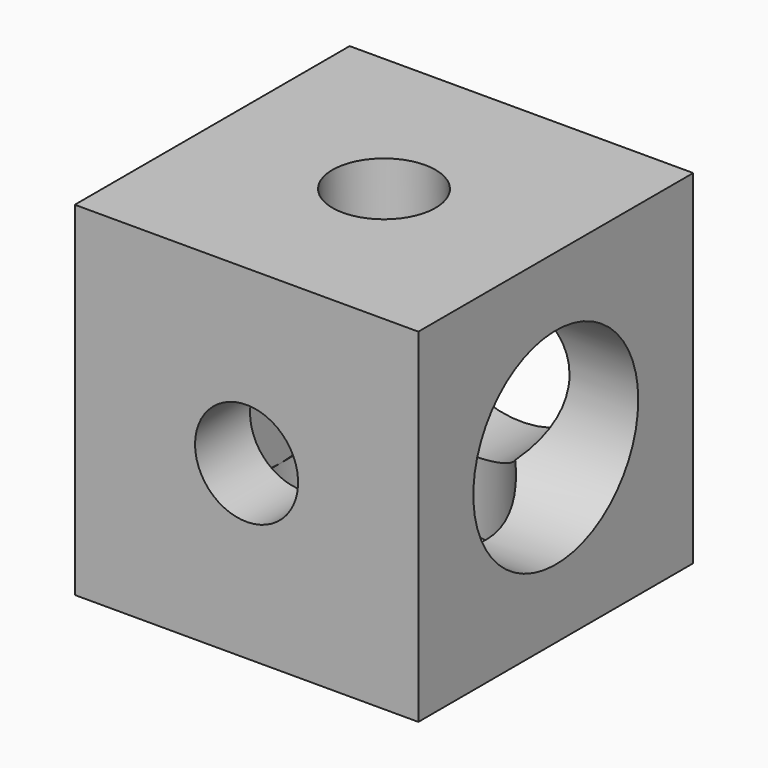
from build123d import *

# Parameters (mm, degrees)
SKETCH001_W                       = 10
SKETCH001_H                       = 10
PAD001_DEPTH                      = 5
SKETCH002_R                       = 1.5
POCKET_DEPTH                      = 39.642016
POCKET_DEPTH_BACK                 = 39.642016
SKETCH002_POLARPATTERN_2_R        = 1.5
POCKET_POLARPATTERN_2_DEPTH       = 39.642016
POCKET_POLARPATTERN_2_DEPTH_BACK  = 39.642016
POLARPATTERN001_COUNT             = 2
POLARPATTERN001_ANGLE             = 90
SKETCH003_R                       = 3
POCKET001_DEPTH                   = 8
SKETCH003_POLARPATTERN002_2_R     = 3
POCKET001_POLARPATTERN002_2_DEPTH = 8
POLARPATTERN003_COUNT             = 2
POLARPATTERN003_ANGLE             = 90


with BuildPart() as part:
    # Sketch001 → Pad001 (new body, symmetric)
    with BuildSketch(Plane.YZ):
        Rectangle(SKETCH001_W, SKETCH001_H)
    extrude(amount=PAD001_DEPTH, both=True)

    # Sketch002 → Pocket (cut, two sides)
    with BuildSketch(Plane.YZ) as pocket_sk:
        Circle(SKETCH002_R)
    pocket = extrude(amount=-POCKET_DEPTH, mode=Mode.SUBTRACT) + extrude(pocket_sk.sketch, amount=POCKET_DEPTH_BACK, mode=Mode.SUBTRACT)

    # Sketch002 PolarPattern 2 → Pocket PolarPattern 2 (cut, two sides)
    with BuildSketch(Plane(origin=(0, 0, 0), x_dir=(-1, 0, 0), z_dir=(0, 1, 0))) as pocket_polarpattern_2_sk:
        Circle(SKETCH002_POLARPATTERN_2_R)
    pocket_polarpattern_2 = extrude(amount=-POCKET_POLARPATTERN_2_DEPTH, mode=Mode.SUBTRACT) + extrude(pocket_polarpattern_2_sk.sketch, amount=POCKET_POLARPATTERN_2_DEPTH_BACK, mode=Mode.SUBTRACT)

    # PolarPattern001: Pocket, Pocket PolarPattern 2 ×2 about axis
    polarpattern001_axis = Axis((0, 0, 0), (0, 1, 0))
    for i in range(1, POLARPATTERN001_COUNT):
        add(pocket.rotate(polarpattern001_axis, i * POLARPATTERN001_ANGLE / (POLARPATTERN001_COUNT - 1)), mode=Mode.SUBTRACT)
        add(pocket_polarpattern_2.rotate(polarpattern001_axis, i * POLARPATTERN001_ANGLE / (POLARPATTERN001_COUNT - 1)), mode=Mode.SUBTRACT)

    # Sketch003 (on Plane of DatumPlane) → Pocket001 (cut)
    with BuildSketch(Plane.YZ.offset(5)):
        Circle(SKETCH003_R)
    pocket001 = extrude(amount=-POCKET001_DEPTH, mode=Mode.SUBTRACT)

    # Sketch003 PolarPattern002 2 → Pocket001 PolarPattern002 2 (cut)
    with BuildSketch(Plane.YX.offset(5)):
        Circle(SKETCH003_POLARPATTERN002_2_R)
    pocket001_polarpattern002_2 = extrude(amount=-POCKET001_POLARPATTERN002_2_DEPTH, mode=Mode.SUBTRACT)

    # PolarPattern003: Pocket001, Pocket001 PolarPattern002 2 ×2 about axis
    polarpattern003_axis = Axis((0, 0, 0), (0, 0, 1))
    for i in range(1, POLARPATTERN003_COUNT):
        add(pocket001.rotate(polarpattern003_axis, i * POLARPATTERN003_ANGLE / (POLARPATTERN003_COUNT - 1)), mode=Mode.SUBTRACT)
        add(pocket001_polarpattern002_2.rotate(polarpattern003_axis, i * POLARPATTERN003_ANGLE / (POLARPATTERN003_COUNT - 1)), mode=Mode.SUBTRACT)


solid = part.part
